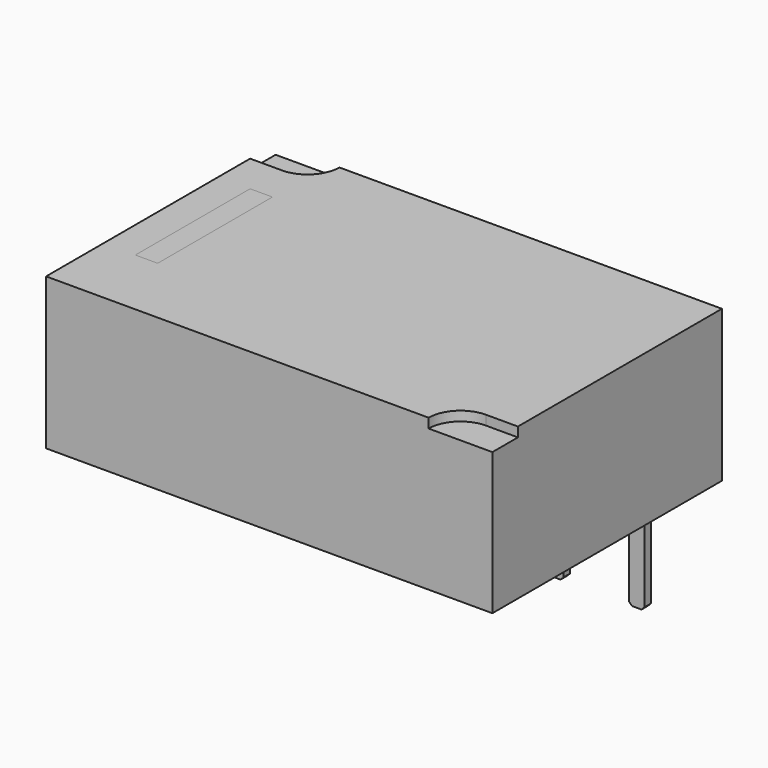
from build123d import *

# Parameters (mm, degrees)
BOX001_W          = 0.7
BOX001_H          = 4.5
BOX001_DEPTH      = 0.5
CYLINDER_R        = 1
CYLINDER_DEPTH    = 0.3
BOX003_W          = 1
BOX003_H          = 1
BOX003_DEPTH      = 0.3
CYLINDER001_R     = 1
CYLINDER001_DEPTH = 0.3
BOX004_W          = 1
BOX004_H          = 1
BOX004_DEPTH      = 0.3
BOX002_W          = 0.7
BOX002_H          = 4.5
BOX002_DEPTH      = 0.5
BOX_W             = 14
BOX_H             = 9
BOX_DEPTH         = 4.75
BOX006_W          = 0.5
BOX006_H          = 0.25
BOX006_DEPTH      = 3.75
CHAMFER_SIZE      = 0.1
CHAMFER001_SIZE   = 0.1
CHAMFER002_SIZE   = 0.1
CHAMFER003_SIZE   = 0.1
CHAMFER004_SIZE   = 0.1
BOX007_W          = 2
BOX007_H          = 0.35
BOX007_DEPTH      = 0.25
BOX005_W          = 2
BOX005_H          = 0.35
BOX005_DEPTH      = 0.25


with BuildPart() as cube001:
    # Box001 → Box001 (new body)
    with BuildSketch(Plane(origin=(-6, -2.25, 4.5), x_dir=(1, 0, 0), z_dir=(0, 0, 1))):
        with Locations((0.35, 2.25)):
            Rectangle(BOX001_W, BOX001_H)
    extrude(amount=BOX001_DEPTH)


with BuildPart() as cylinder:
    # Cylinder → Cylinder (new body)
    with BuildSketch(Plane(origin=(6, -4.5, 4.7), x_dir=(1, 0, 0), z_dir=(0, 0, 1))):
        Circle(CYLINDER_R)
    extrude(amount=CYLINDER_DEPTH)


with BuildPart() as cube003:
    # Box003 → Box003 (new body)
    with BuildSketch(Plane(origin=(6, -4.5, 4.7), x_dir=(1, 0, 0), z_dir=(0, 0, 1))):
        with Locations((0.5, 0.5)):
            Rectangle(BOX003_W, BOX003_H)
    extrude(amount=BOX003_DEPTH)


with BuildPart() as cylinder001:
    # Cylinder001 → Cylinder001 (new body)
    with BuildSketch(Plane(origin=(-6, 4.5, 4.7), x_dir=(1, 0, 0), z_dir=(0, 0, 1))):
        Circle(CYLINDER001_R)
    extrude(amount=CYLINDER001_DEPTH)


with BuildPart() as cube004:
    # Box004 → Box004 (new body)
    with BuildSketch(Plane(origin=(-7, 3.5, 4.7), x_dir=(1, 0, 0), z_dir=(0, 0, 1))):
        with Locations((0.5, 0.5)):
            Rectangle(BOX004_W, BOX004_H)
    extrude(amount=BOX004_DEPTH)


with BuildPart() as cube002:
    # Box002 → Box002 (new body)
    with BuildSketch(Plane(origin=(-6, -2.25, 4.5), x_dir=(1, 0, 0), z_dir=(0, 0, 1))):
        with Locations((0.35, 2.25)):
            Rectangle(BOX002_W, BOX002_H)
    extrude(amount=BOX002_DEPTH)


with BuildPart() as cut004:
    # Box → Box (new body)
    with BuildSketch(Plane(origin=(-7, -4.5, 0.25), x_dir=(1, 0, 0), z_dir=(0, 0, 1))):
        with Locations((7, 4.5)):
            Rectangle(BOX_W, BOX_H)
    extrude(amount=BOX_DEPTH)

    # Cut: cut Cube002
    add(cube002.part, mode=Mode.SUBTRACT)

    # Cut001: cut Cube004
    add(cube004.part, mode=Mode.SUBTRACT)

    # Cut002: cut Cylinder001
    add(cylinder001.part, mode=Mode.SUBTRACT)

    # Cut003: cut Cube003
    add(cube003.part, mode=Mode.SUBTRACT)

    # Cut004: cut Cylinder
    add(cylinder.part, mode=Mode.SUBTRACT)


with BuildPart() as cube006:
    # Box006 → Box006 (new body)
    with BuildSketch(Plane(origin=(-0.25, -3.81, -3.5), x_dir=(1, 0, 0), z_dir=(0, 0, 1))):
        with Locations((0.25, 0.125)):
            Rectangle(BOX006_W, BOX006_H)
    extrude(amount=BOX006_DEPTH)


with BuildPart() as pin3:
    # Chamfer base: copy of Cube006
    add(cube006.part)

    # Chamfer
    chamfer_edges = [pin3.edges().sort_by_distance(p)[0] for p in [
        (-0.25, -3.685, -3.5),
        (0.25, -3.685, -3.5),
    ]]
    chamfer(chamfer_edges, length=CHAMFER_SIZE)


with BuildPart() as part_mirroring:
    # Part__Mirroring: instance of pin3
    add(pin3.part.mirror(Plane(origin=(0, 0, -1.625), x_dir=(1, 0, 0), z_dir=(0, 1, 0))))


with BuildPart() as pin4:
    # Chamfer001 base: copy of Cube006
    add(cube006.part)

    # Chamfer001
    chamfer001_edges = [pin4.edges().sort_by_distance(p)[0] for p in [
        (-0.25, -3.685, -3.5),
        (0.25, -3.685, -3.5),
    ]]
    chamfer(chamfer001_edges, length=CHAMFER001_SIZE)


with BuildPart() as pin4_1:
    # Chamfer001 placement: moved
    add(pin4.part.moved(Location((2.54, 0, 0))))


with BuildPart() as part_mirroring001:
    # Part__Mirroring001: instance of pin4
    add(pin4_1.part.mirror(Plane(origin=(2.54, 0, -1.625), x_dir=(1, 0, 0), z_dir=(0, 1, 0))))


with BuildPart() as pin5:
    # Chamfer002 base: copy of Cube006
    add(cube006.part)

    # Chamfer002
    chamfer002_edges = [pin5.edges().sort_by_distance(p)[0] for p in [
        (-0.25, -3.685, -3.5),
        (0.25, -3.685, -3.5),
    ]]
    chamfer(chamfer002_edges, length=CHAMFER002_SIZE)


with BuildPart() as pin5_1:
    # Chamfer002 placement: moved
    add(pin5.part.moved(Location((5.08, 0, 0))))


with BuildPart() as part_mirroring002:
    # Part__Mirroring002: instance of pin5
    add(pin5_1.part.mirror(Plane(origin=(5.08, 0, -1.625), x_dir=(1, 0, 0), z_dir=(0, 1, 0))))


with BuildPart() as pin2:
    # Chamfer003 base: copy of Cube006
    add(cube006.part)

    # Chamfer003
    chamfer003_edges = [pin2.edges().sort_by_distance(p)[0] for p in [
        (-0.25, -3.685, -3.5),
        (0.25, -3.685, -3.5),
    ]]
    chamfer(chamfer003_edges, length=CHAMFER003_SIZE)


with BuildPart() as pin2_1:
    # Chamfer003 placement: moved
    add(pin2.part.moved(Location((-2.54, 0, 0))))


with BuildPart() as part_mirroring003:
    # Part__Mirroring003: instance of pin2
    add(pin2_1.part.mirror(Plane(origin=(0, 0, 0), x_dir=(1, 0, 0), z_dir=(0, 1, 0))))


with BuildPart() as pin1:
    # Chamfer004 base: copy of Cube006
    add(cube006.part)

    # Chamfer004
    chamfer004_edges = [pin1.edges().sort_by_distance(p)[0] for p in [
        (-0.25, -3.685, -3.5),
        (0.25, -3.685, -3.5),
    ]]
    chamfer(chamfer004_edges, length=CHAMFER004_SIZE)


with BuildPart() as pin1_1:
    # Chamfer004 placement: moved
    add(pin1.part.moved(Location((-5.08, 0, 0))))


with BuildPart() as part_mirroring004:
    # Part__Mirroring004: instance of pin1
    add(pin1_1.part.mirror(Plane(origin=(0, 0, 0), x_dir=(1, 0, 0), z_dir=(0, 1, 0))))


with BuildPart() as sup1:
    # Box007 → Box007 (new body)
    with BuildSketch(Plane(origin=(-5, -4.5, 0), x_dir=(1, 0, 0), z_dir=(0, 0, 1))):
        with Locations((1, 0.175)):
            Rectangle(BOX007_W, BOX007_H)
    extrude(amount=BOX007_DEPTH)


with BuildPart() as part_mirroring005:
    # Part__Mirroring005: instance of sup1
    add(sup1.part.mirror(Plane(origin=(0, 0, 0), x_dir=(1, 0, 0), z_dir=(0, 1, 0))))


with BuildPart() as sup2:
    # Box005 → Box005 (new body)
    with BuildSketch(Plane(origin=(3, -4.5, 0), x_dir=(1, 0, 0), z_dir=(0, 0, 1))):
        with Locations((1, 0.175)):
            Rectangle(BOX005_W, BOX005_H)
    extrude(amount=BOX005_DEPTH)


with BuildPart() as part_mirroring006:
    # Part__Mirroring006: instance of sup2
    add(sup2.part.mirror(Plane(origin=(0, 0, 0), x_dir=(1, 0, 0), z_dir=(0, 1, 0))))


solid = Compound([cube001.part, cut004.part, part_mirroring.part, part_mirroring001.part, part_mirroring002.part, part_mirroring003.part, part_mirroring004.part, part_mirroring005.part, part_mirroring006.part])
